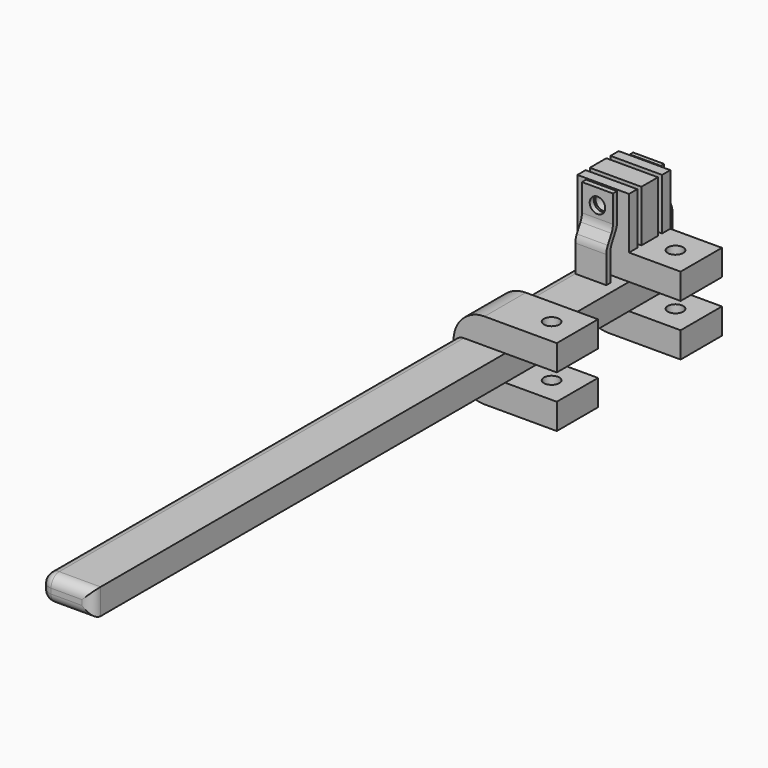
from build123d import *

# Parameters (mm, degrees)
PAD008_DEPTH         = 5
PAD009_DEPTH         = 10
PAD009_DEPTH_BACK    = 5
SKETCH045_W          = 10
SKETCH045_H          = 5
POCKET004_DEPTH      = 11
SKETCH044_R          = 1.5
POCKET005_DEPTH      = 10
PAD010_DEPTH         = 10
PAD010_DEPTH_BACK    = 5
SKETCH042_W          = 10
SKETCH042_H          = 5
POCKET006_DEPTH      = 10
SKETCH041_R          = 1.5
POCKET007_DEPTH      = 15
FILLET_R             = 2
FILLET001_R          = 6
FILLET002_R          = 2
SKETCH039_W          = 10
SKETCH039_H          = 2
SKETCH039_H_2        = 4
PAD021_DEPTH         = 10
PAD022_DEPTH         = 20
POCKET018_DEPTH      = 8
PAD025_DEPTH         = 6
FILLET003_R          = 3
SKETCH040_R          = 1.5
POCKET023_DEPTH      = 15
POCKET023_DEPTH_BACK = 6


with BuildPart() as part:
    # Sketch047 → Pad008 (new body)
    with BuildSketch(Plane.XY):
        Polygon((0, 0), (5, 0), (5, -140), (-5, -140), (-5, 0), align=None)
    extrude(amount=PAD008_DEPTH)

    # Sketch046 → Pad009 (join, two sides)
    with BuildSketch(Plane.XY) as pad009_sk:
        Polygon((0, 0), (-5, 0), (-5, -10), (15, -10), (15, 0), align=None)
    extrude(amount=PAD009_DEPTH)
    extrude(pad009_sk.sketch, amount=-PAD009_DEPTH_BACK)

    # Sketch045 → Pocket004 (cut)
    with BuildSketch(Plane.YZ.offset(5)):
        with Locations((-5, 2.5)):
            Rectangle(SKETCH045_W, SKETCH045_H)
    extrude(amount=POCKET004_DEPTH, mode=Mode.SUBTRACT)

    # Sketch044 → Pocket005 (cut, symmetric)
    with BuildSketch(Plane(origin=(10, -5, 0), x_dir=(1, 0, 0), z_dir=(0, 0, 1))):
        Circle(SKETCH044_R)
    extrude(amount=POCKET005_DEPTH, both=True, mode=Mode.SUBTRACT)

    # Sketch043 → Pad010 (join, two sides)
    with BuildSketch(Plane.XY) as pad010_sk:
        Polygon((0, -30), (-5, -30), (-5, -40), (15, -40), (15, -30), align=None)
    extrude(amount=PAD010_DEPTH)
    extrude(pad010_sk.sketch, amount=-PAD010_DEPTH_BACK)

    # Sketch042 → Pocket006 (cut)
    with BuildSketch(Plane.YZ.offset(5)):
        with Locations((-35, 2.5)):
            Rectangle(SKETCH042_W, SKETCH042_H)
    extrude(amount=POCKET006_DEPTH, mode=Mode.SUBTRACT)

    # Sketch041 → Pocket007 (cut)
    with BuildSketch(Plane(origin=(10, -35, 10), x_dir=(1, 0, 0), z_dir=(0, 0, 1))):
        Circle(SKETCH041_R)
    extrude(amount=-POCKET007_DEPTH, mode=Mode.SUBTRACT)

    # Fillet
    fillet_edges = [part.edges().sort_by_distance(p)[0] for p in [
        (-5, -20, 5),
        (-5, -90, 5),
        (-5, -90, 0),
        (-5, -20, 0),
    ]]
    fillet(fillet_edges, radius=FILLET_R)

    # Fillet001
    fillet001_edges = [part.edges().sort_by_distance(p)[0] for p in [
        (-5, -35, -5),
        (-5, -35, 10),
        (-5, -5, -5),
    ]]
    fillet(fillet001_edges, radius=FILLET001_R)

    # Fillet002
    fillet002_edges = [part.edges().sort_by_distance(p)[0] for p in [
        (5, -140, 2.5),
        (1, -140, 5),
        (-4.414214, -140, 4.414214),
        (-4.414214, -140, 0.585786),
        (1, -140, 0),
        (-5, -140, 2.5),
    ]]
    fillet(fillet002_edges, radius=FILLET002_R)

    # Sketch039 → Pad021 (join)
    with BuildSketch(Plane(origin=(-5, 0, 10), x_dir=(1, 0, 0), z_dir=(0, 0, 1))):
        with Locations((5, -1)):
            Rectangle(SKETCH039_W, SKETCH039_H)
        with Locations((5, -5)):
            Rectangle(SKETCH039_W, SKETCH039_H_2)
        with Locations((5, -9)):
            Rectangle(SKETCH039_W, SKETCH039_H)
    extrude(amount=PAD021_DEPTH)

    # Sketch048 → Pad022 (join)
    with BuildSketch(Plane.XY):
        Polygon((0, 0), (-3, 0), (-3, 3), (3, 3), (3, 0), align=None)
    extrude(amount=PAD022_DEPTH)

    # Sketch049 → Pocket018 (cut)
    with BuildSketch(Plane.YZ.offset(-3)):
        Polygon((0, 0), (3, 0), (3, 4), align=None)
        Polygon((3, 20), (1, 20), (1, 15), (3, 12), align=None)
        Polygon((0, 20), (0.2, 20), (0.2, 14.2), (2.1, 11.35), (2.1, 4.8), (0, 2), (0, 14.5), align=None)
    extrude(amount=POCKET018_DEPTH, mode=Mode.SUBTRACT)

    # Sketch054 → Pad025 (join)
    with BuildSketch(Plane(origin=(-3, -12, 5), x_dir=(0, 1, 0), z_dir=(1, 0, 0))):
        Polygon((0, 0), (0, 6), (1.6, 9), (1.6, 15), (0.6, 15), (0.6, 9), (-1, 6), (-1, 0), align=None)
    extrude(amount=PAD025_DEPTH)

    # Fillet003
    fillet003_edges = [part.edges().sort_by_distance(p)[0] for p in [
        (0, -12, 11),
        (0, -10.4, 14),
        (0, -13, 11),
        (0, -11.4, 14),
        (0, 2.1, 11.35),
        (0, 3, 4),
        (0, 3, 12),
        (0, 1, 15),
        (0, 0.2, 14.2),
        (0, 2.1, 4.8),
    ]]
    fillet(fillet003_edges, radius=FILLET003_R)

    # Sketch040 → Pocket023 (cut, two sides)
    with BuildSketch(Plane(origin=(0, -10, 17), x_dir=(1, 0, 0), z_dir=(0, -1, 0))) as pocket023_sk:
        Circle(SKETCH040_R)
    extrude(amount=-POCKET023_DEPTH, mode=Mode.SUBTRACT)
    extrude(pocket023_sk.sketch, amount=POCKET023_DEPTH_BACK, mode=Mode.SUBTRACT)


with BuildPart() as part_1:
    # Body007 placement: moved
    add(part.part.moved(Location((-135, 27, 0))))


solid = part_1.part
